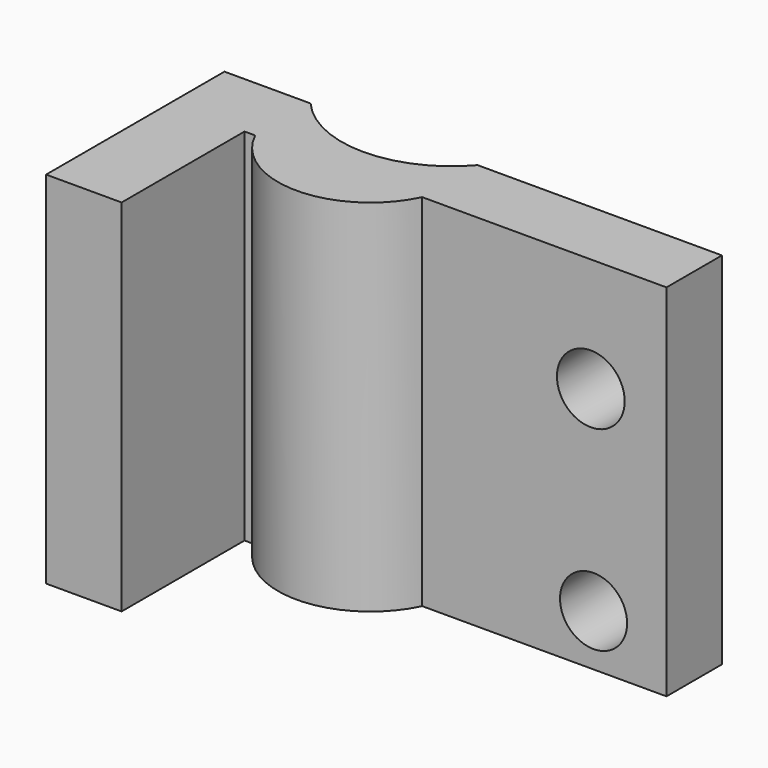
from build123d import *

# Parameters (mm, degrees)
F1_DEPTH = 121.92
F2_R     = 11.470221
F2_R_2   = 11.362396
F3_DEPTH = 42.672


with BuildPart() as f1:
    # F0 (on Top) → F1 (new body)
    with BuildSketch(Plane.XY):
        with BuildLine():
            Line((-13.385132, -7.970921), (69.331974, -7.970921))
            Line((69.331974, -7.970921), (69.331974, 15.490659))
            Line((69.331974, 15.490659), (-13.385132, 15.490659))
            ThreePointArc((-13.385132, 15.490659), (-41.659344, 2.517575), (-69.933556, 15.490659))
            Line((-69.933556, 15.490659), (-99.110134, 15.490659))
            Line((-99.110134, 15.490659), (-99.110134, -60.007501))
            Line((-99.110134, -60.007501), (-73.543034, -60.007501))
            Line((-73.543034, -60.007501), (-73.543034, -7.970921))
            Line((-73.543034, -7.970921), (-69.933556, -7.970921))
            ThreePointArc((-69.933556, -7.970921), (-41.659344, -25.83217), (-13.385132, -7.970921))
        make_face()
    extrude(amount=F1_DEPTH)

    # F2 (on face) → F3 (cut)
    with BuildSketch(Plane.XZ.offset(7.970921)):
        with Locations((43.704975, 83.342351)):
            Circle(F2_R)
        with Locations((44.639133, 17.422972)):
            Circle(F2_R_2)
    extrude(amount=-F3_DEPTH, mode=Mode.SUBTRACT)


solid = f1.part
